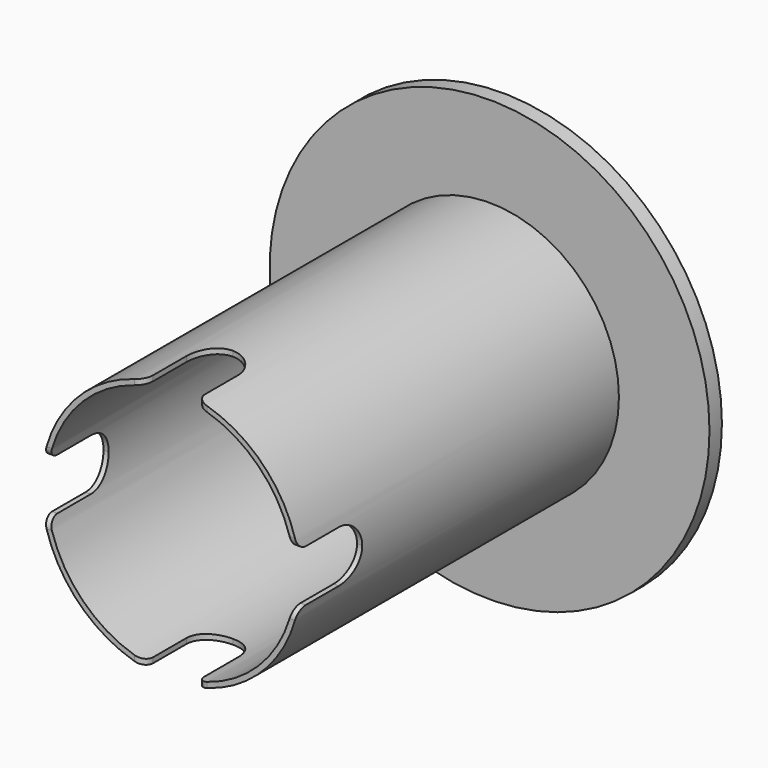
from build123d import *

# Parameters (mm, degrees)
F0_R     = 42.5
F0_R_2   = 25
F1_DEPTH = 3
F0_R_3   = 24
F3_DEPTH = 80
F5_DEPTH = 2
F6_COUNT = 4
F7_R     = 2


with BuildPart() as f1:
    # F0 (on Front) → F1 (new body)
    with BuildSketch(Plane.XZ):
        Circle(F0_R)
        Circle(F0_R_2, mode=Mode.SUBTRACT)
        Circle(F0_R)
        Circle(F0_R_2, mode=Mode.SUBTRACT)
    extrude(amount=F1_DEPTH)

    # F0 (on Front) → F3 (join)
    with BuildSketch(Plane.XZ):
        Circle(F0_R_2)
        Circle(F0_R_3, mode=Mode.SUBTRACT)
    extrude(amount=F3_DEPTH)

    # F6: F5 ×4 about axis
    f6_axis = Axis((0, -80, 0), (0, -1, 0))


with BuildPart() as f5:
    # F4 (on offset) → F5 (new body)
    with BuildSketch(Plane.XY.offset(25)):
        with BuildLine():
            Line((-5, -70), (-5, -80))
            Line((-5, -80), (5, -80))
            Line((5, -80), (5, -70))
            ThreePointArc((5, -70), (3.5355339059, -66.4644660941), (0, -65))
            ThreePointArc((0, -65), (-3.5355339059, -66.4644660941), (-5, -70))
        make_face()
    extrude(amount=-F5_DEPTH)


with BuildPart() as f1_1:
    add(f1.part)
    for i in range(1, F6_COUNT):
        add(f5.part.rotate(f6_axis, i * 360 / F6_COUNT), mode=Mode.SUBTRACT)

    # F6#seed: cut F5
    add(f5.part, mode=Mode.SUBTRACT)

    # F7
    f7_edges = [f1_1.edges().sort_by_distance(p)[0] for p in [
        (5, -80, -23.984143),
        (-5, -80, -23.984143),
        (23.984143, -80, -5),
        (23.984143, -80, 5),
        (5, -80, 23.984143),
        (-5, -80, 23.984143),
        (-23.984143, -80, -5),
        (-23.984143, -80, 5),
    ]]
    fillet(f7_edges, radius=F7_R)


solid = f1_1.part
